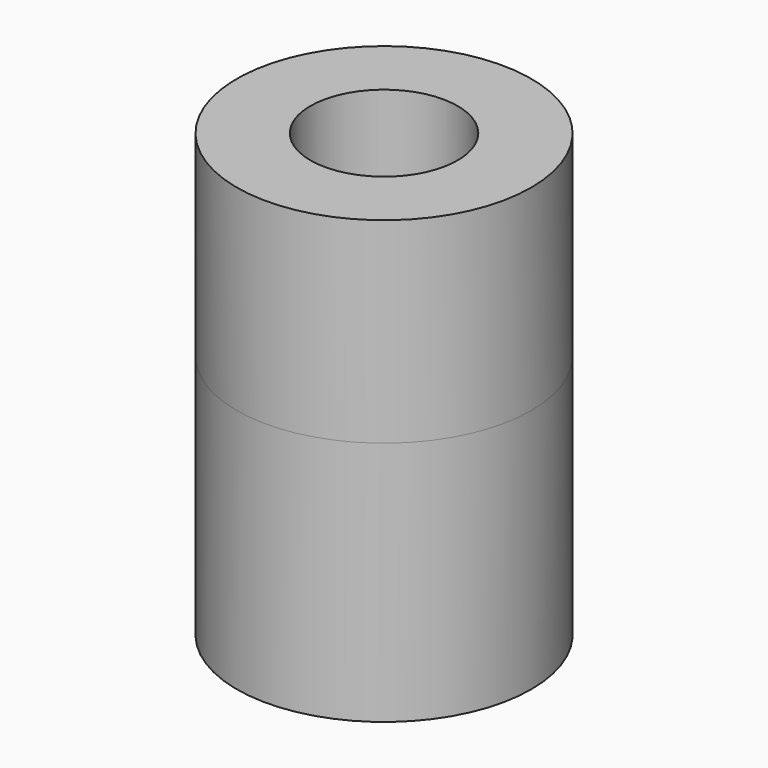
from build123d import *

# Parameters (mm, degrees)
F0_R     = 3
F1_DEPTH = 5
F2_R     = 3
F3_DEPTH = 4
F5_D     = 3
F5_DEPTH = 15


with BuildPart() as f1:
    # F0 (on Top) → F1 (new body)
    with BuildSketch(Plane.XY):
        Circle(F0_R)
    extrude(amount=-F1_DEPTH)

    # F2 (on Top) → F3 (join)
    with BuildSketch(Plane.XY):
        Circle(F2_R)
    extrude(amount=F3_DEPTH)

    # F5
    with Locations(Plane.XY.offset(4)):
        with Locations((0, 0)):
            Hole(F5_D / 2, depth=F5_DEPTH)


solid = f1.part
